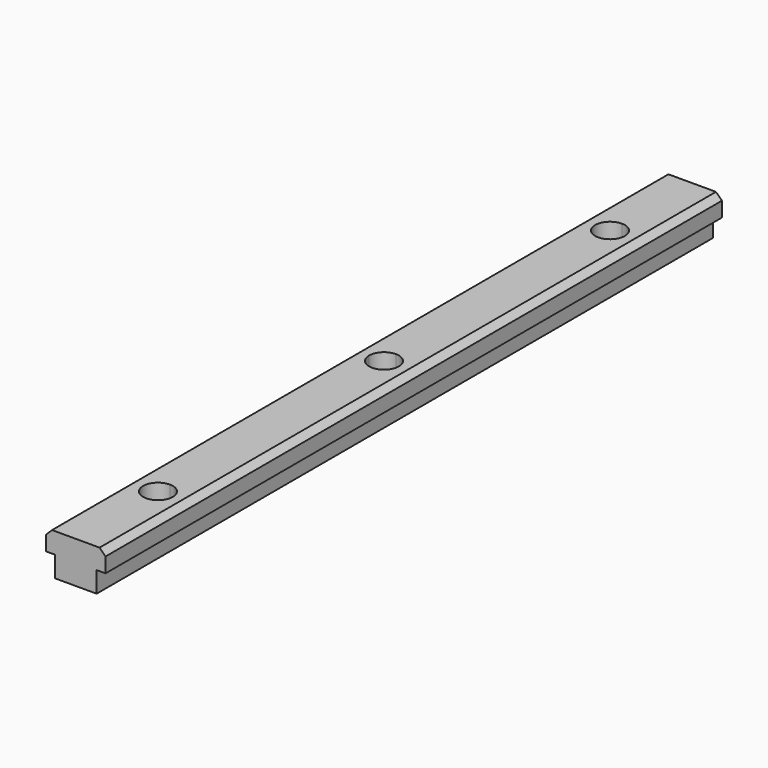
from build123d import *

# Parameters (mm, degrees)
F1_DEPTH = 259.08
F3_DEPTH = 13.973549


with BuildPart() as f1:
    # F0 (on Front) → F1 (new body)
    with BuildSketch(Plane.XZ):
        Polygon((-13.062644, 0), (-13.062644, -7), (0.932756, -7), (0.932756, 0), (3.929956, 0), (3.929956, 5), (1.929956, 6.972549), (-14.059844, 6.972549), (-16.059844, 5), (-16.059844, 0), align=None)
    extrude(amount=F1_DEPTH)

    # F2 (on face) → F3 (cut, through all)
    with BuildSketch(Plane.XY.offset(6.972549)):
        with BuildLine():
            ThreePointArc((-6.064944, -124.5489), (-9.594184, -126.010759), (-11.056044, -129.54))
            Line((-11.056044, -129.54), (-6.064944, -129.54))
            Line((-6.064944, -129.54), (-6.064944, -124.5489))
        make_face()
        with BuildLine():
            ThreePointArc((-6.064944, -29.5489), (-11.056044, -34.54), (-6.064944, -39.5311))
            Line((-6.064944, -39.5311), (-6.064944, -29.5489))
        make_face()
        with BuildLine():
            Line((-6.064944, -29.5489), (-6.064944, -39.5311))
            ThreePointArc((-6.064944, -39.5311), (-2.535703, -38.069241), (-1.073844, -34.54))
            ThreePointArc((-1.073844, -34.54), (-2.535703, -31.010759), (-6.064944, -29.5489))
        make_face()
        with BuildLine():
            ThreePointArc((-1.073844, -224.536), (-2.535703, -221.006759), (-6.064944, -219.5449))
            Line((-6.064944, -219.5449), (-6.064944, -229.5271))
            ThreePointArc((-6.064944, -229.5271), (-2.535703, -228.065241), (-1.073844, -224.536))
        make_face()
        with BuildLine():
            Line((-6.064944, -229.5271), (-6.064944, -219.5449))
            ThreePointArc((-6.064944, -219.5449), (-11.056044, -224.536), (-6.064944, -229.5271))
        make_face()
        with BuildLine():
            Line((-6.064944, -129.54), (-11.056044, -129.54))
            ThreePointArc((-11.056044, -129.54), (-9.594184, -133.069241), (-6.064944, -134.5311))
            Line((-6.064944, -134.5311), (-6.064944, -129.54))
        make_face()
        with BuildLine():
            Line((-6.064944, -124.5489), (-6.064944, -129.54))
            Line((-6.064944, -129.54), (-1.073844, -129.54))
            ThreePointArc((-1.073844, -129.54), (-2.535703, -126.010759), (-6.064944, -124.5489))
        make_face()
        with BuildLine():
            Line((-1.073844, -129.54), (-6.064944, -129.54))
            Line((-6.064944, -129.54), (-6.064944, -134.5311))
            ThreePointArc((-6.064944, -134.5311), (-2.535703, -133.069241), (-1.073844, -129.54))
        make_face()
    extrude(amount=-F3_DEPTH, mode=Mode.SUBTRACT)


solid = f1.part
